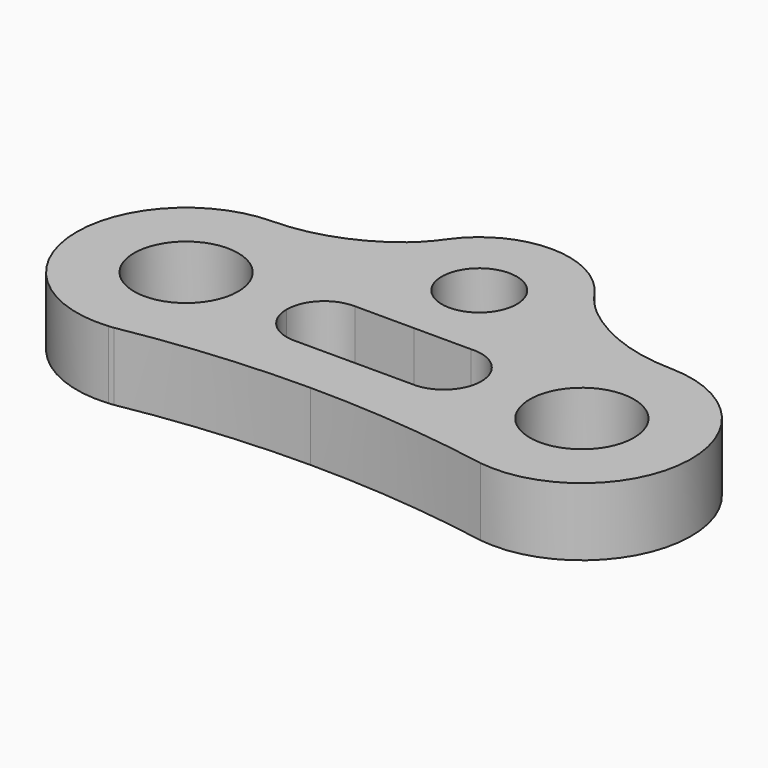
from build123d import *

# Parameters (mm, degrees)
F0_R     = 7.493
F1_DEPTH = 9.779


with BuildPart() as f1:
    # F0 (on Top) → F1 (new body)
    with BuildSketch(Plane.XY):
        with BuildLine():
            ThreePointArc((-28.804382, 15.744827), (-39.735006, 11.023195), (-44.236288, 0))
            ThreePointArc((-44.236288, 0), (-39.133073, -11.605518), (-27.130871, -15.689389))
            ThreePointArc((-27.130871, -15.689389), (-26.77073, -15.654057), (-26.411497, -15.610459))
            ThreePointArc((-26.411497, -15.610459), (-13.259182, -13.824655), (0, -13.219206))
            ThreePointArc((0, -13.219206), (13.259182, -13.824655), (26.411497, -15.610459))
            ThreePointArc((26.411497, -15.610459), (44.190629, -1.198327), (28.804382, 15.744827))
            ThreePointArc((28.804382, 15.744827), (28.687684, 15.746024), (28.570993, 15.747783))
            ThreePointArc((28.570993, 15.747783), (20.647303, 17.228065), (13.648412, 21.227016))
            ThreePointArc((13.648412, 21.227016), (11.970991, 22.880077), (10.515754, 24.731734))
            ThreePointArc((10.515754, 24.731734), (0, 30.111899), (-10.515754, 24.731734))
            ThreePointArc((-10.515754, 24.731734), (-11.970991, 22.880077), (-13.648412, 21.227016))
            ThreePointArc((-13.648412, 21.227016), (-20.647303, 17.228065), (-28.570993, 15.747783))
            ThreePointArc((-28.570993, 15.747783), (-28.687684, 15.746024), (-28.804382, 15.744827))
        make_face()
        with BuildLine():
            ThreePointArc((-35.981288, 0), (-28.488288, 7.493), (-20.995288, 0))
            ThreePointArc((-20.995288, 0), (-28.488288, -7.493), (-35.981288, 0))
        make_face(mode=Mode.SUBTRACT)
        with BuildLine():
            ThreePointArc((-14.010288, 0.000393), (-12.397713, 3.848031), (-8.523938, 5.396769))
            Line((-8.523938, 5.396769), (0, 5.389336))
            Line((0, 5.389336), (8.206422, 5.382181))
            ThreePointArc((8.206422, 5.382181), (13.997631, 0.369419), (8.945243, -5.387252))
            Line((8.945243, -5.387252), (-8.945243, -5.387252))
            ThreePointArc((-8.945243, -5.387252), (-12.545316, -3.697057), (-14.010288, 0.000393))
        make_face(mode=Mode.SUBTRACT)
        with Locations((28.488288, 0)):
            Circle(F0_R, mode=Mode.SUBTRACT)
        with BuildLine():
            ThreePointArc((5.3975, 17.14508), (3.816609, 13.328471), (0, 11.74758))
            ThreePointArc((0, 11.74758), (-3.816609, 20.961689), (5.3975, 17.14508))
        make_face(mode=Mode.SUBTRACT)
        with BuildLine():
            ThreePointArc((-28.804382, 15.744827), (-39.735006, 11.023195), (-44.236288, 0))
            ThreePointArc((-44.236288, 0), (-39.133073, -11.605518), (-27.130871, -15.689389))
            ThreePointArc((-27.130871, -15.689389), (-26.77073, -15.654057), (-26.411497, -15.610459))
            ThreePointArc((-26.411497, -15.610459), (-13.259182, -13.824655), (0, -13.219206))
            ThreePointArc((0, -13.219206), (13.259182, -13.824655), (26.411497, -15.610459))
            ThreePointArc((26.411497, -15.610459), (44.190629, -1.198327), (28.804382, 15.744827))
            ThreePointArc((28.804382, 15.744827), (28.687684, 15.746024), (28.570993, 15.747783))
            ThreePointArc((28.570993, 15.747783), (20.647303, 17.228065), (13.648412, 21.227016))
            ThreePointArc((13.648412, 21.227016), (11.970991, 22.880077), (10.515754, 24.731734))
            ThreePointArc((10.515754, 24.731734), (0, 30.111899), (-10.515754, 24.731734))
            ThreePointArc((-10.515754, 24.731734), (-11.970991, 22.880077), (-13.648412, 21.227016))
            ThreePointArc((-13.648412, 21.227016), (-20.647303, 17.228065), (-28.570993, 15.747783))
            ThreePointArc((-28.570993, 15.747783), (-28.687684, 15.746024), (-28.804382, 15.744827))
        make_face()
        with BuildLine():
            ThreePointArc((-35.981288, 0), (-28.488288, 7.493), (-20.995288, 0))
            ThreePointArc((-20.995288, 0), (-28.488288, -7.493), (-35.981288, 0))
        make_face(mode=Mode.SUBTRACT)
        with BuildLine():
            ThreePointArc((-14.010288, 0.000393), (-12.397713, 3.848031), (-8.523938, 5.396769))
            Line((-8.523938, 5.396769), (0, 5.389336))
            Line((0, 5.389336), (8.206422, 5.382181))
            ThreePointArc((8.206422, 5.382181), (13.997631, 0.369419), (8.945243, -5.387252))
            Line((8.945243, -5.387252), (-8.945243, -5.387252))
            ThreePointArc((-8.945243, -5.387252), (-12.545316, -3.697057), (-14.010288, 0.000393))
        make_face(mode=Mode.SUBTRACT)
        with Locations((28.488288, 0)):
            Circle(F0_R, mode=Mode.SUBTRACT)
        with BuildLine():
            ThreePointArc((5.3975, 17.14508), (3.816609, 13.328471), (0, 11.74758))
            ThreePointArc((0, 11.74758), (-3.816609, 20.961689), (5.3975, 17.14508))
        make_face(mode=Mode.SUBTRACT)
    extrude(amount=F1_DEPTH)


solid = f1.part
